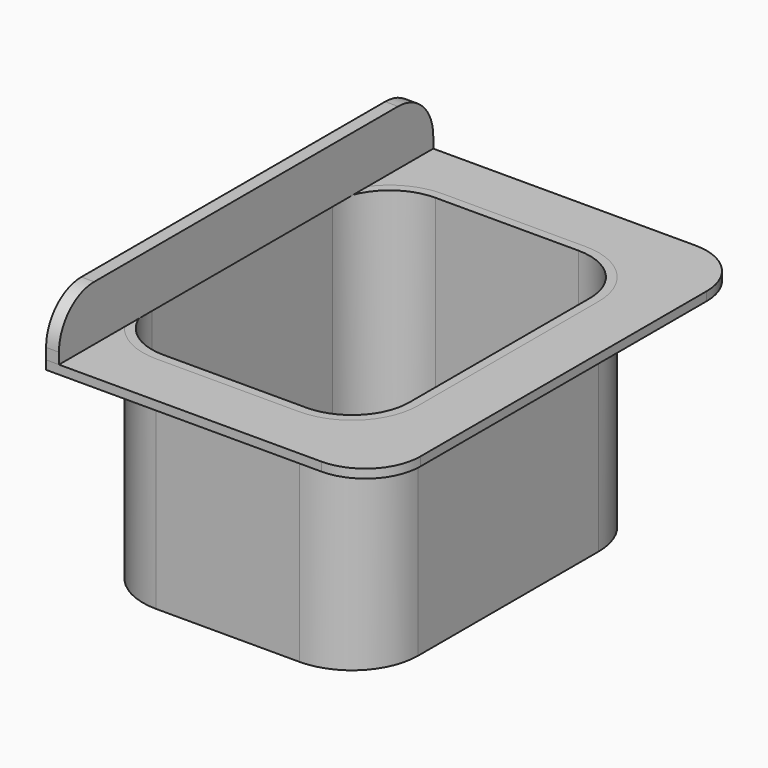
from build123d import *

# Parameters (mm, degrees)
F0_W     = 50
F0_H     = 65
F1_DEPTH = 40
F2_R     = 12
F3_T     = -1.6
F5_DEPTH = 1.6
F6_R     = 10
F7_W     = 2.3431457505
F7_H     = 85
F8_DEPTH = 10
F9_R     = 8


with BuildPart() as f1:
    # F0 (on Top) → F1 (new body)
    with BuildSketch(Plane.XY):
        Rectangle(F0_W, F0_H)
    extrude(amount=F1_DEPTH)

    # F2
    f2_edges = [f1.edges().sort_by_distance(p)[0] for p in [
        (-25, -32.5, 20),
        (25, -32.5, 20),
        (25, 32.5, 20),
        (-25, 32.5, 20),
    ]]
    fillet(f2_edges, radius=F2_R)

    # F3
    f3_openings = [f1.faces().sort_by_distance(p)[0] for p in [
        (0, 0, 40),
    ]]
    offset(amount=F3_T, openings=f3_openings)


with BuildPart() as f5:
    # F4 (on face) → F5 (new body)
    with BuildSketch(Plane.XY.offset(40)):
        with BuildLine():
            Line((35, 42.5), (-25, 42.5))
            Line((-25, 42.5), (-25, 20.5))
            ThreePointArc((-25, 20.5), (-21.4852813742, 28.9852813742), (-13, 32.5))
            Line((-13, 32.5), (13, 32.5))
            ThreePointArc((13, 32.5), (21.4852813742, 28.9852813742), (25, 20.5))
            Line((25, 20.5), (25, -20.5))
            ThreePointArc((25, -20.5), (21.4852813742, -28.9852813742), (13, -32.5))
            Line((13, -32.5), (-13, -32.5))
            ThreePointArc((-13, -32.5), (-21.4852813742, -28.9852813742), (-25, -20.5))
            Line((-25, -20.5), (-25, -42.5))
            Line((-25, -42.5), (35, -42.5))
            Line((35, -42.5), (35, 42.5))
        make_face()
    extrude(amount=-F5_DEPTH)

    # F6
    f6_edges = [f5.edges().sort_by_distance(p)[0] for p in [
        (35, 42.5, 39.2),
        (35, -42.5, 39.2),
    ]]
    fillet(f6_edges, radius=F6_R)


with BuildPart() as f8:
    # F7 (on face) → F8 (new body)
    with BuildSketch(Plane.XY.offset(40)):
        with Locations((-23.8284271247, 0)):
            Rectangle(F7_W, F7_H)
    extrude(amount=F8_DEPTH)

    # F9
    f9_edges = [f8.edges().sort_by_distance(p)[0] for p in [
        (-23.828427, 42.5, 50),
        (-23.828427, -42.5, 50),
    ]]
    fillet(f9_edges, radius=F9_R)


solid = Compound([f1.part, f5.part, f8.part])
